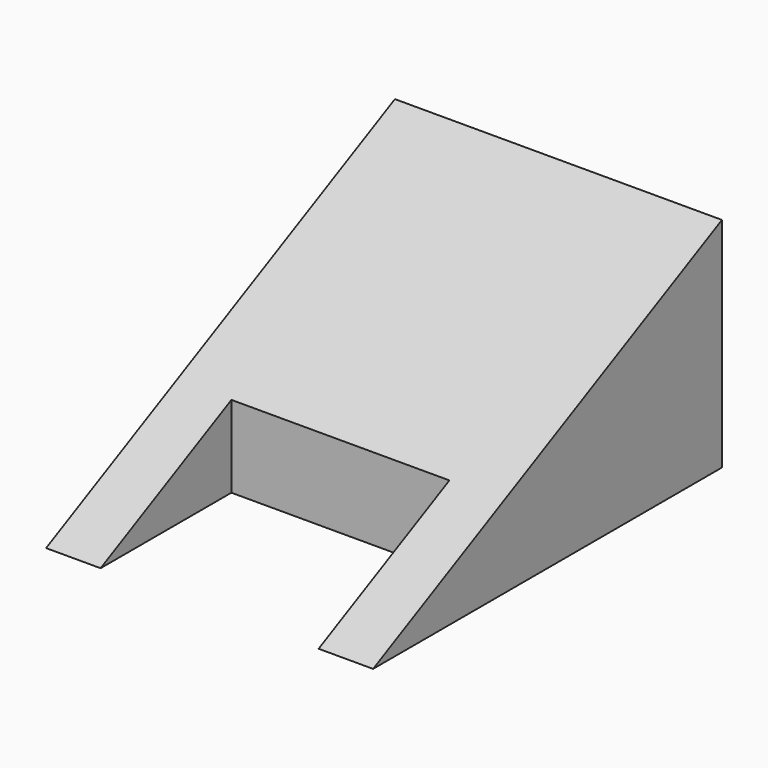
from build123d import *

# Parameters (mm, degrees)
F1_DEPTH = 25.4
F3_DEPTH = 38.101


with BuildPart() as f1:
    # F0 (on Top) → F1 (new body)
    with BuildSketch(Plane.XY):
        Polygon((38.1, 0), (0, 0), (0, -50.8), (6.35, -50.8), (6.35, -31.75), (31.75, -31.75), (31.75, -50.8), (38.1, -50.8), align=None)
    extrude(amount=F1_DEPTH)

    # F2 (on face) → F3 (cut, through all)
    with BuildSketch(Plane.YZ.offset(38.1)):
        Polygon((-50.8, 25.4), (-50.8, 0), (0, 25.4), align=None)
    extrude(amount=-F3_DEPTH, mode=Mode.SUBTRACT)


solid = f1.part
